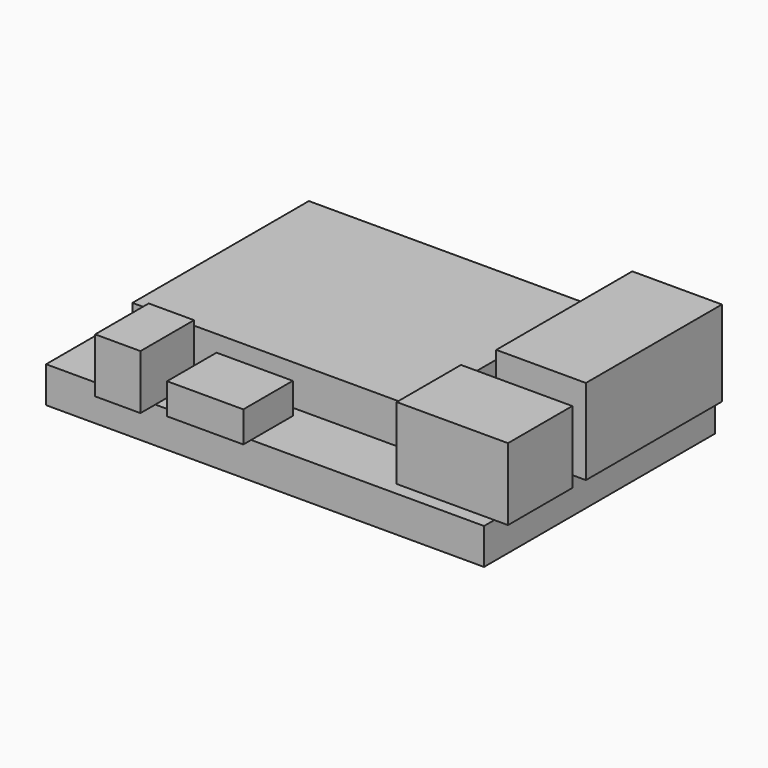
from build123d import *

# Parameters (mm, degrees)
F0_W     = 85
F0_H     = 56
F1_DEPTH = 7
F2_W     = 14.75
F2_H     = 33
F2_W_2   = 2.65
F3_DEPTH = 16.6
F2_W_3   = 18.95
F2_H_2   = 15.6
F4_DEPTH = 14
F2_W_4   = 14.8
F2_H_3   = 10.1
F2_H_4   = 1.9
F5_DEPTH = 6
F2_W_5   = 8.8
F2_H_5   = 9.4
F2_H_6   = 3.6
F6_DEPTH = 10.6
F2_W_6   = 54.7
F2_H_7   = 42.8
F7_DEPTH = 7.8
F8_D     = 2.5
F8_DEPTH = 5
F8_TIP   = 0.7510757738


with BuildPart() as f1:
    # F0 (on Top) → F1 (new body)
    with BuildSketch(Plane.XY):
        Rectangle(F0_W, F0_H)
    extrude(amount=F1_DEPTH)

    # F2 (on face) → F3 (join)
    with BuildSketch(Plane.XY.offset(7)):
        with Locations((35.125, 9.9)):
            Rectangle(F2_W, F2_H)
        with Locations((43.825, 9.9)):
            Rectangle(F2_W_2, F2_H)
    extrude(amount=F3_DEPTH)

    # F2 (on face) → F4 (join)
    with BuildSketch(Plane.XY.offset(7)):
        with Locations((33.025, -17.7)):
            Rectangle(F2_W_3, F2_H_2)
        with Locations((43.825, -17.7)):
            Rectangle(F2_W_2, F2_H_2)
    extrude(amount=F4_DEPTH)

    # F2 (on face) → F5 (join)
    with BuildSketch(Plane.XY.offset(7)):
        with Locations((-10.1, -22.95)):
            Rectangle(F2_W_4, F2_H_3)
        with Locations((-10.1, -28.95)):
            Rectangle(F2_W_4, F2_H_4)
    extrude(amount=F5_DEPTH)

    # F2 (on face) → F6 (join)
    with BuildSketch(Plane.XY.offset(7)):
        with Locations((-25.7, -23.3)):
            Rectangle(F2_W_5, F2_H_5)
        with Locations((-25.7, -29.8)):
            Rectangle(F2_W_5, F2_H_6)
    extrude(amount=F6_DEPTH)

    # F2 (on face) → F7 (join)
    with BuildSketch(Plane.XY.offset(7)):
        with Locations((-8.15, 5.6)):
            Rectangle(F2_W_6, F2_H_7)
    extrude(amount=F7_DEPTH)

    # F8
    with Locations(Plane(origin=(0, 0, 0), x_dir=(1, 0, 0), z_dir=(0, 0, -1))):
        with Locations((-32.5, 24), (32.5, 18), (24.5, -13), (-32.5, -16)):
            Hole(F8_D / 2, depth=F8_DEPTH)
            with Locations((0, 0, -(F8_DEPTH + F8_TIP / 2))):  # 118° drill point
                Cone(0, F8_D / 2, F8_TIP, mode=Mode.SUBTRACT)


solid = f1.part
